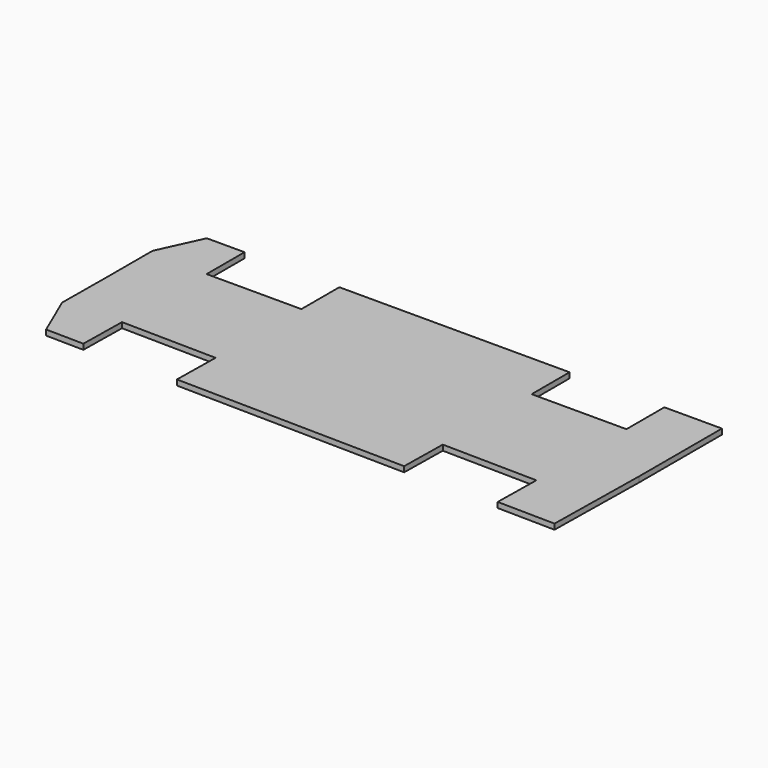
from build123d import *

# Parameters (mm, degrees)
F1_DEPTH = 4


with BuildPart() as f1:
    # F0 (on Top) → F1 (new body)
    with BuildSketch(Plane.XY):
        Polygon((70, 0), (0, 0), (0, 35), (-170, 35), (-170, 0), (-240, 0), (-240, 35), (-267.875909, 35), (-282.5, 3.201636), (-282.5, -38.298364), (-282.836363, -79.797001), (-269.065978, -111.82415), (-241.193732, -112.276012), (-240.626391, -77.280611), (-170.635588, -78.415293), (-171.202929, -113.410695), (-1.225265, -116.166352), (-0.657924, -81.170951), (69.332879, -82.305633), (68.765538, -117.301035), (111.259954, -117.989949), (112.5, -41.5), (112.5, 35), (70, 35), align=None)
    extrude(amount=F1_DEPTH)


solid = f1.part
